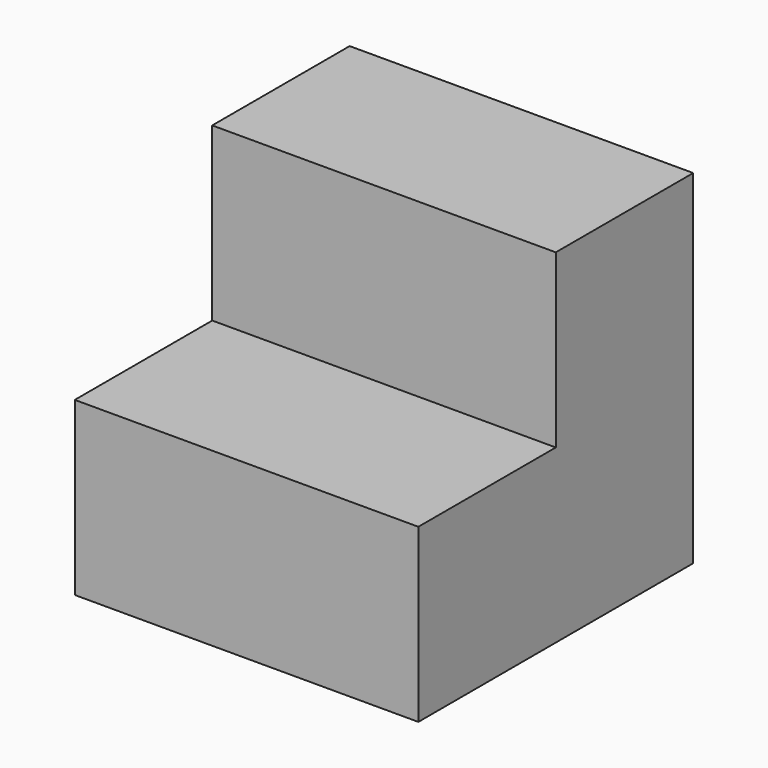
from build123d import *

# Parameters (mm, degrees)
F0_W     = 25.4
F0_H     = 25.4
F1_DEPTH = 25.4
F2_W     = 25.4
F2_H     = 25.4
F3_DEPTH = 25.4
F4_W     = 50.8
F4_H     = 25.4
F5_DEPTH = 25.4
F6_W     = 50.8
F6_H     = 25.4
F7_DEPTH = 25.4


with BuildPart() as f1:
    # F0 (on Front) → F1 (new body)
    with BuildSketch(Plane.XZ):
        with Locations((-35.9664, 33.636859)):
            Rectangle(F0_W, F0_H)
    extrude(amount=F1_DEPTH)

    # F2 (on face) → F3 (join)
    with BuildSketch(Plane.XZ.offset(25.4)):
        with Locations((-35.9664, 33.636859)):
            Rectangle(F2_W, F2_H)
    extrude(amount=F3_DEPTH)

    # F4 (on face) → F5 (join)
    with BuildSketch(Plane.YZ.offset(-23.2664)):
        with Locations((-25.4, 33.636859)):
            Rectangle(F4_W, F4_H)
    extrude(amount=F5_DEPTH)

    # F6 (on face) → F7 (join)
    with BuildSketch(Plane.XY.offset(46.336859)):
        with Locations((-23.2664, -12.7)):
            Rectangle(F6_W, F6_H)
    extrude(amount=F7_DEPTH)


solid = f1.part
